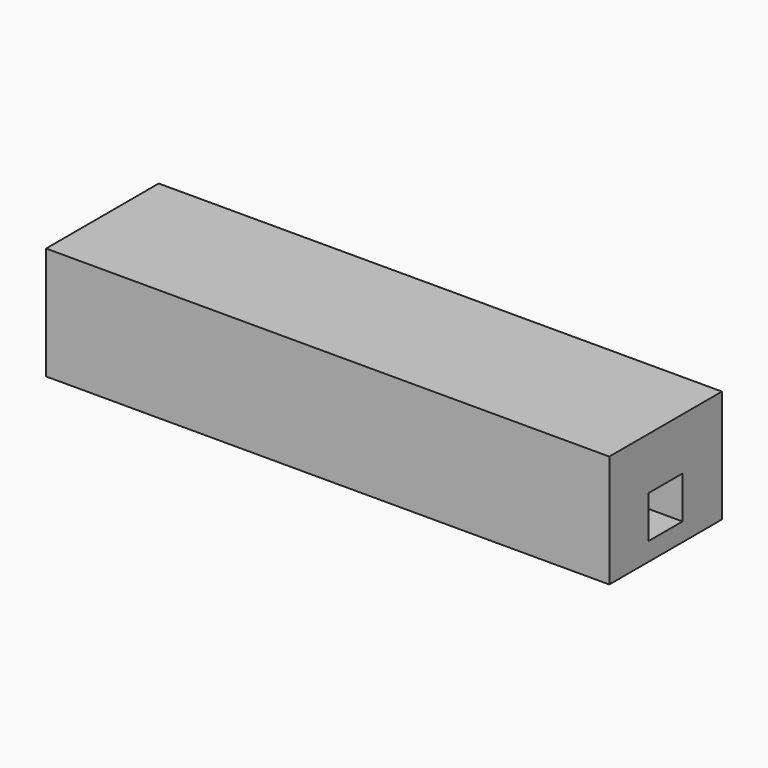
from build123d import *

# Parameters (mm, degrees)
SKETCH015_W   = 50
SKETCH015_H   = 40
SKETCH015_W_2 = 15
SKETCH015_H_2 = 15
PAD008_DEPTH  = 200


with BuildPart() as part:
    # Sketch015 → Pad008 (new body)
    with BuildSketch(Plane.YZ):
        with Locations((0, -0.005687)):
            Rectangle(SKETCH015_W, SKETCH015_H)
        with Locations((0, -6.005687)):
            Rectangle(SKETCH015_W_2, SKETCH015_H_2, mode=Mode.SUBTRACT)
    extrude(amount=PAD008_DEPTH)


with BuildPart() as part_1:
    # Body004 placement: moved
    add(part.part.moved(Location((28.722813, 0, 42.00053))))


solid = part_1.part
